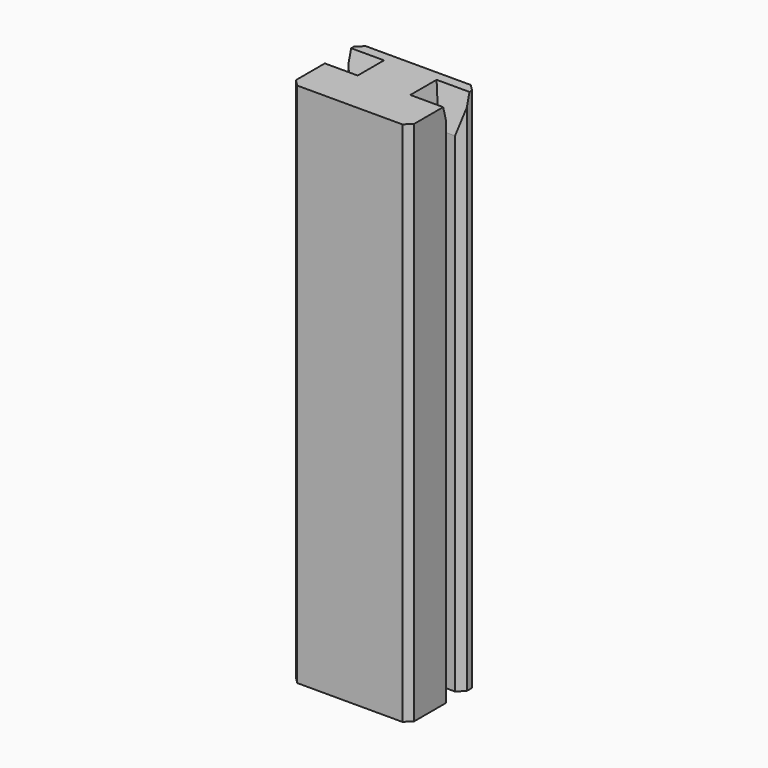
from build123d import *

# Parameters (mm, degrees)
F1_DEPTH = 40
F2_SIZE  = 0.5
F3_SIZE2 = 2.799038
F3_SIZE  = 0.75


with BuildPart() as f1:
    # F0 (on Top) → F1 (new body)
    with BuildSketch(Plane.XY):
        Polygon((-4.5, 4), (-4.5, 0), (4.5, 0), (4.5, 4), (2.75, 4), (2.75, 5), (4.5, 5), (4.5, 6.5), (-4.5, 6.5), (-4.5, 5), (-2.75, 5), (-2.75, 4), align=None)
    extrude(amount=F1_DEPTH)

    # F2
    f2_edges = [f1.edges().sort_by_distance(p)[0] for p in [
        (-4.5, 5, 20),
        (-4.5, 4, 20),
        (4.5, 4, 20),
        (4.5, 5, 20),
        (4.5, 6.5, 20),
        (4.5, 0, 20),
        (-4.5, 6.5, 20),
        (-4.5, 0, 20),
    ]]
    chamfer(f2_edges, length=F2_SIZE)

    # F3
    f3_edges = [f1.edges().sort_by_distance(p)[0] for p in [
        (-2.75, 4.5, 40),
        (2.75, 4.5, 40),
        (-3.375, 4, 40),
        (-3.375, 5, 40),
        (3.375, 5, 40),
        (3.375, 4, 40),
    ]]
    chamfer(f3_edges, length=F3_SIZE, length2=F3_SIZE2)


solid = f1.part
